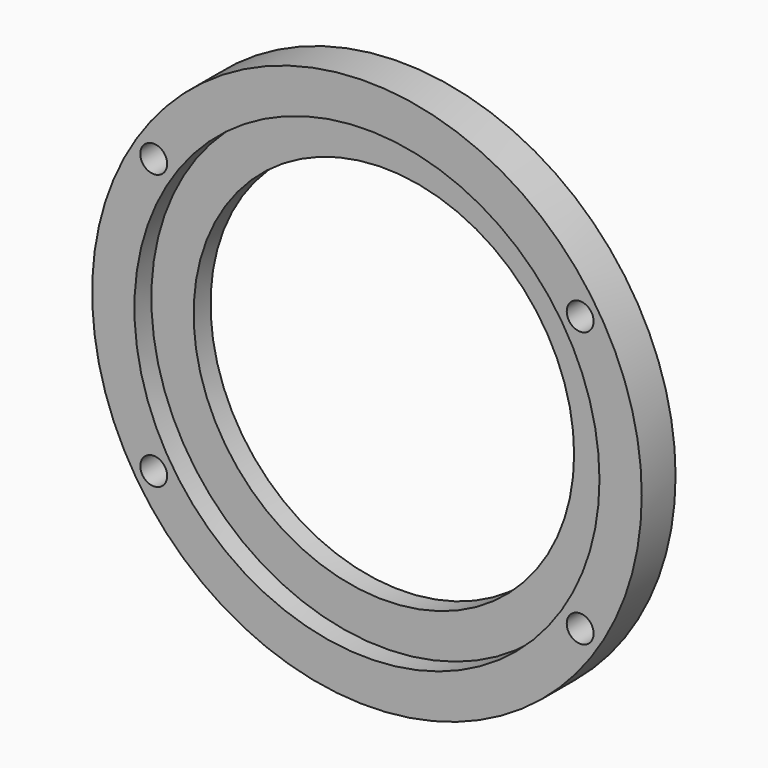
from build123d import *

# Parameters (mm, degrees)
F0_R     = 41.275
F0_R_2   = 28.575
F1_DEPTH = 6.35
F2_R     = 34.925
F3_DEPTH = 3.175
F5_D     = 4.0386
F5_DEPTH = 6.35
F5_TIP   = 1.213317848


with BuildPart() as f1:
    # F0 (on Front) → F1 (new body)
    with BuildSketch(Plane.XZ):
        Circle(F0_R)
        Circle(F0_R_2, mode=Mode.SUBTRACT)
    extrude(amount=F1_DEPTH)

    # F2 (on face) → F3 (cut)
    with BuildSketch(Plane.XZ.offset(6.35)):
        Circle(F2_R)
    extrude(amount=-F3_DEPTH, mode=Mode.SUBTRACT)

    # F5
    with Locations(Plane.XZ.offset(6.35)):
        with Locations((-32.0266075904, 20.6375), (32.0266075904, 20.6375), (32.0266075904, -20.6375), (-32.0266075904, -20.6375)):
            Hole(F5_D / 2, depth=F5_DEPTH)
            with Locations((0, 0, -(F5_DEPTH + F5_TIP / 2))):  # 118° drill point
                Cone(0, F5_D / 2, F5_TIP, mode=Mode.SUBTRACT)


solid = f1.part
